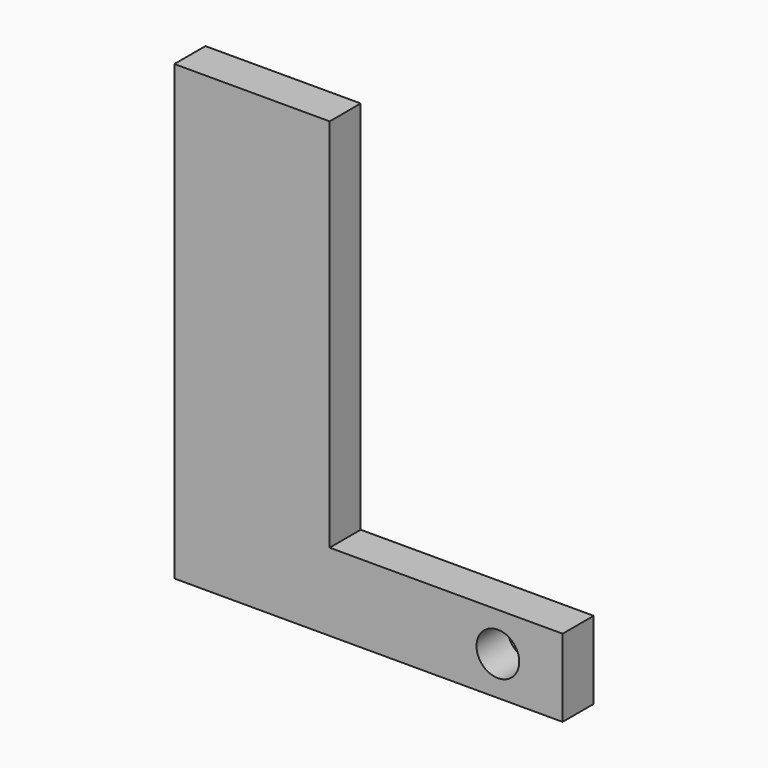
from build123d import *

# Parameters (mm, degrees)
F0_W     = 18
F0_H     = 6
F1_DEPTH = 3
F3_D     = 3.3


with BuildPart() as f1:
    # F0 (on Front) → F1 (new body)
    with BuildSketch(Plane.XZ):
        with Locations((9, 3)):
            Rectangle(F0_W, F0_H)
        Polygon((-12, 0), (0, 0), (0, 6), (0, 35), (-12, 35), align=None)
    extrude(amount=F1_DEPTH)

    # F3 (through all)
    with Locations(Plane.XZ.offset(3)):
        with Locations((13, 3)):
            Hole(F3_D / 2)


solid = f1.part
